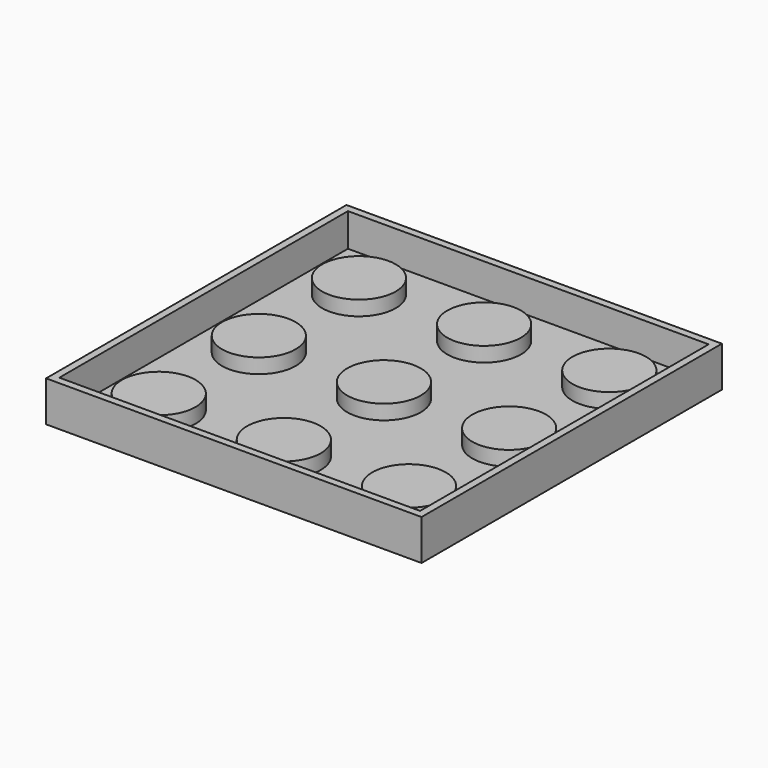
from build123d import *

# Parameters (mm, degrees)
F0_R     = 5
F1_DEPTH = 3
F0_W     = 49
F0_H     = 49
F2_DEPTH = 1
F0_W_2   = 51
F0_H_2   = 51
F3_DEPTH = 5.5


with BuildPart() as f1:
    # F0 (on Top) → F1 (new body)
    with BuildSketch(Plane.XY):
        with Locations((20.5, 54.5)):
            Circle(F0_R)
    extrude(amount=F1_DEPTH)



with BuildPart() as f1b:
    # F0 (on Top) → F1, piece 2 (new body)
    with BuildSketch(Plane.XY):
        with Locations((37.5, 54.5)):
            Circle(F0_R)
    extrude(amount=F1_DEPTH)


with BuildPart() as f1c:
    # F0 (on Top) → F1, piece 3 (new body)
    with BuildSketch(Plane.XY):
        with Locations((54.5, 54.5)):
            Circle(F0_R)
    extrude(amount=F1_DEPTH)


with BuildPart() as f1d:
    # F0 (on Top) → F1, piece 4 (new body)
    with BuildSketch(Plane.XY):
        with Locations((54.5, 37.5)):
            Circle(F0_R)
    extrude(amount=F1_DEPTH)


with BuildPart() as f1e:
    # F0 (on Top) → F1, piece 5 (new body)
    with BuildSketch(Plane.XY):
        with Locations((37.5, 37.5)):
            Circle(F0_R)
    extrude(amount=F1_DEPTH)


with BuildPart() as f1f:
    # F0 (on Top) → F1, piece 6 (new body)
    with BuildSketch(Plane.XY):
        with Locations((20.5, 37.5)):
            Circle(F0_R)
    extrude(amount=F1_DEPTH)


with BuildPart() as f1g:
    # F0 (on Top) → F1, piece 7 (new body)
    with BuildSketch(Plane.XY):
        with Locations((20.5, 20.5)):
            Circle(F0_R)
    extrude(amount=F1_DEPTH)


with BuildPart() as f1h:
    # F0 (on Top) → F1, piece 8 (new body)
    with BuildSketch(Plane.XY):
        with Locations((37.5, 20.5)):
            Circle(F0_R)
    extrude(amount=F1_DEPTH)


with BuildPart() as f1i:
    # F0 (on Top) → F1, piece 9 (new body)
    with BuildSketch(Plane.XY):
        with Locations((54.5, 20.5)):
            Circle(F0_R)
    extrude(amount=F1_DEPTH)


with BuildPart() as f1_1:
    add(f1.part)

    add(f1b.part)  # F2 merges F1b

    add(f1c.part)  # F2 merges F1c

    add(f1d.part)  # F2 merges F1d

    add(f1e.part)  # F2 merges F1e

    add(f1f.part)  # F2 merges F1f

    add(f1g.part)  # F2 merges F1g

    add(f1h.part)  # F2 merges F1h

    add(f1i.part)  # F2 merges F1i
    # F0 (on Top) → F2 (join)
    with BuildSketch(Plane.XY):
        with Locations((37.5, 37.5)):
            Rectangle(F0_W, F0_H)
        with Locations((20.5, 20.5)):
            Circle(F0_R, mode=Mode.SUBTRACT)
        with Locations((37.5, 20.5)):
            Circle(F0_R, mode=Mode.SUBTRACT)
        with Locations((54.5, 20.5)):
            Circle(F0_R, mode=Mode.SUBTRACT)
        with Locations((20.5, 37.5)):
            Circle(F0_R, mode=Mode.SUBTRACT)
        with Locations((20.5, 54.5)):
            Circle(F0_R, mode=Mode.SUBTRACT)
        with Locations((37.5, 37.5)):
            Circle(F0_R, mode=Mode.SUBTRACT)
        with Locations((54.5, 37.5)):
            Circle(F0_R, mode=Mode.SUBTRACT)
        with Locations((37.5, 54.5)):
            Circle(F0_R, mode=Mode.SUBTRACT)
        with Locations((54.5, 54.5)):
            Circle(F0_R, mode=Mode.SUBTRACT)
    extrude(amount=F2_DEPTH)

    # F0 (on Top) → F3 (join)
    with BuildSketch(Plane.XY):
        with Locations((37.5, 37.5)):
            Rectangle(F0_W_2, F0_H_2)
        with Locations((37.5, 37.5)):
            Rectangle(F0_W, F0_H, mode=Mode.SUBTRACT)
    extrude(amount=F3_DEPTH)


solid = f1_1.part
